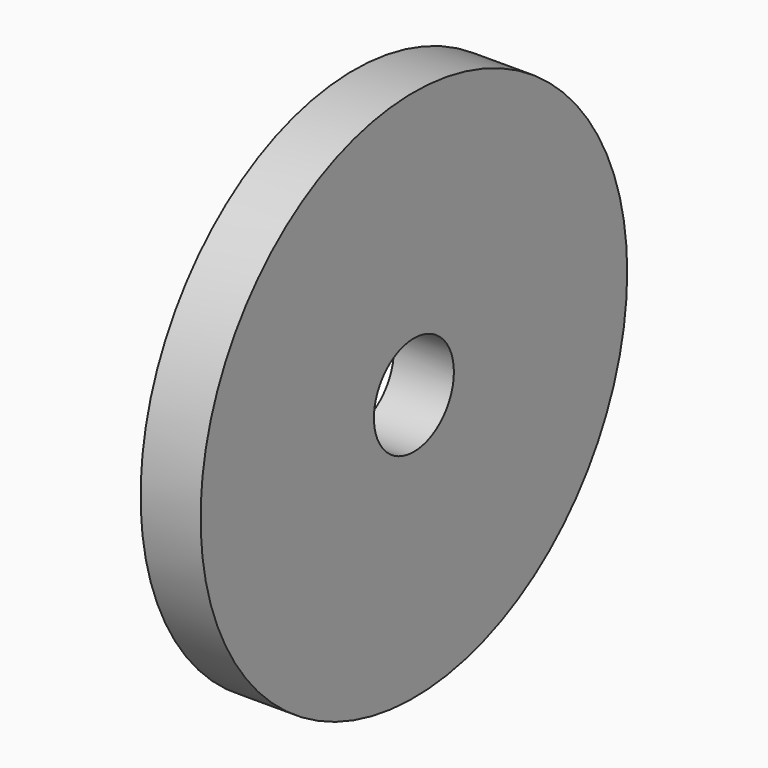
from build123d import *

# Parameters (mm, degrees)
F0_R     = 40
F1_DEPTH = 9
F2_R     = 7.5
F3_DEPTH = 9


with BuildPart() as f1:
    # F0 (on Right) → F1 (new body)
    with BuildSketch(Plane.YZ):
        Circle(F0_R)
    extrude(amount=F1_DEPTH)

    # F2 (on face) → F3 (cut, through all)
    with BuildSketch(Plane.YZ.offset(9)):
        Circle(F2_R)
    extrude(amount=-F3_DEPTH, mode=Mode.SUBTRACT)


solid = f1.part
